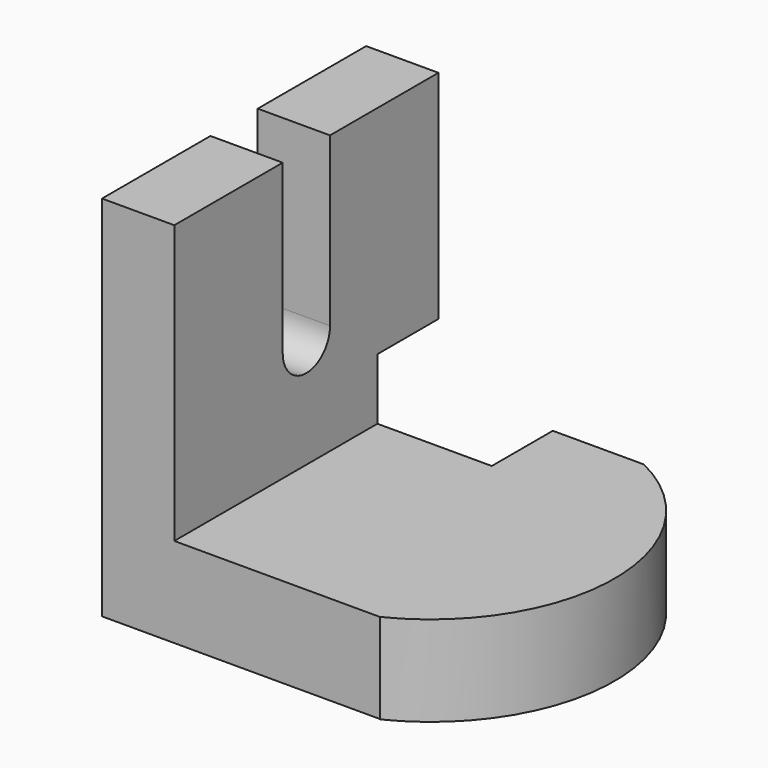
from build123d import *

# Parameters (mm, degrees)
F1_DEPTH = 38.1
F3_DEPTH = 20.828
F4_W     = 13.647594
F4_H     = 2.408188
F5_DEPTH = 50.8
F6_W     = 26.398936
F6_H     = 17.6022
F7_DEPTH = 50.8
F9_DEPTH = 50.8


with BuildPart() as f1:
    # F0 (on Front) → F1 (new body, symmetric)
    with BuildSketch(Plane.XZ):
        Polygon((0, 38.717061), (-16.683353, 38.717061), (-16.683353, -46.183128), (47.443293, -46.183128), (47.443293, -25.435435), (0, -25.435435), align=None)
    extrude(amount=F1_DEPTH, both=True)

    # F2 (on face) → F3 (join)
    with BuildSketch(Plane.XY.offset(-25.435435)):
        with BuildLine():
            Line((47.443293, 38.1), (47.443293, -38.1))
            ThreePointArc((47.443293, -38.1), (71.140257, 0), (47.443293, 38.1))
        make_face()
    extrude(amount=-F3_DEPTH)

    # F4 (on face) → F5 (cut)
    with BuildSketch(Plane.YZ):
        with BuildLine():
            ThreePointArc((-6.823797, 0), (0, 6.823797), (6.823797, 0))
            Line((6.823797, 0), (6.823797, 38.717061))
            Line((6.823797, 38.717061), (-6.823797, 38.717061))
            Line((-6.823797, 38.717061), (-6.823797, 0))
        make_face()
        with Locations((0, 39.921155)):
            Rectangle(F4_W, F4_H)
        with BuildLine():
            Line((-6.823797, 0), (6.823797, 0))
            ThreePointArc((6.823797, 0), (0, 6.823797), (-6.823797, 0))
        make_face()
        with BuildLine():
            ThreePointArc((-6.823797, 0), (0, -6.823797), (6.823797, 0))
            Line((6.823797, 0), (-6.823797, 0))
        make_face()
    extrude(amount=-F5_DEPTH, mode=Mode.SUBTRACT)

    # F6 (on face) → F7 (cut)
    with BuildSketch(Plane.XY.offset(-25.435435)):
        with Locations((13.199468, 29.2989)):
            Rectangle(F6_W, F6_H)
    extrude(amount=-F7_DEPTH, mode=Mode.SUBTRACT)

    # F8 (on face) → F9 (cut)
    with BuildSketch(Plane.YZ):
        Polygon((20.4978, -11.306379), (20.4978, -25.435435), (20.4978, -46.183128), (38.1, -46.183128), (38.1, -11.306379), align=None)
    extrude(amount=-F9_DEPTH, mode=Mode.SUBTRACT)


solid = f1.part
